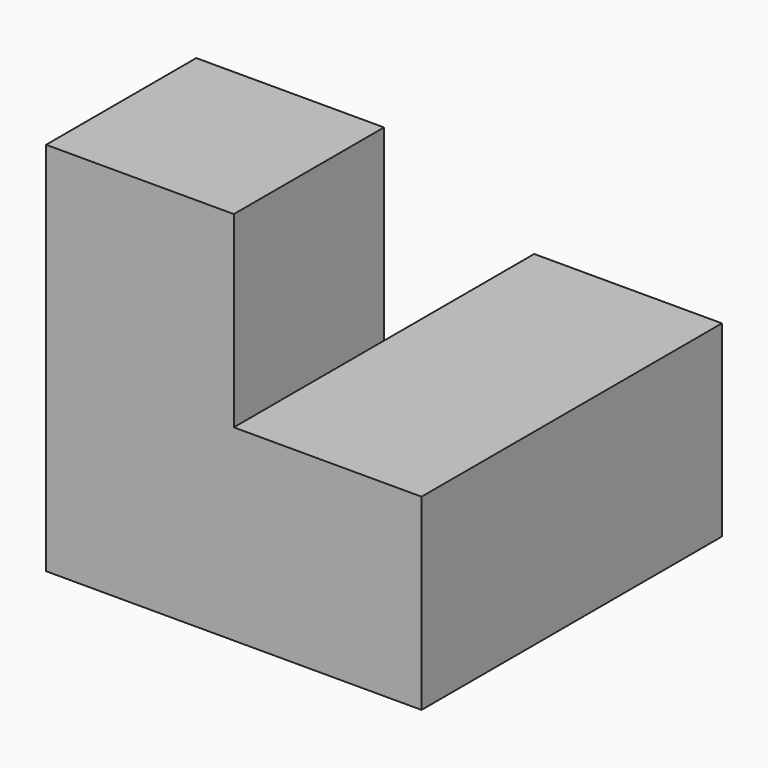
from build123d import *

# Parameters (mm, degrees)
F0_W     = 10
F0_H     = 10
F1_DEPTH = 20
F2_W     = 10
F2_H     = 10
F3_DEPTH = 10
F4_W     = 10
F4_H     = 10
F5_DEPTH = 10


with BuildPart() as f1:
    # F0 (on Top) → F1 (new body)
    with BuildSketch(Plane.XY):
        with Locations((5, 5)):
            Rectangle(F0_W, F0_H)
    extrude(amount=F1_DEPTH)

    # F2 (on face) → F3 (join)
    with BuildSketch(Plane.YZ.offset(10)):
        with Locations((5, 5)):
            Rectangle(F2_W, F2_H)
    extrude(amount=F3_DEPTH)

    # F4 (on face) → F5 (join)
    with BuildSketch(Plane(origin=(0, 10, 0), x_dir=(-1, 0, 0), z_dir=(0, 1, 0))):
        with Locations((-15, 5)):
            Rectangle(F4_W, F4_H)
    extrude(amount=F5_DEPTH)


solid = f1.part
